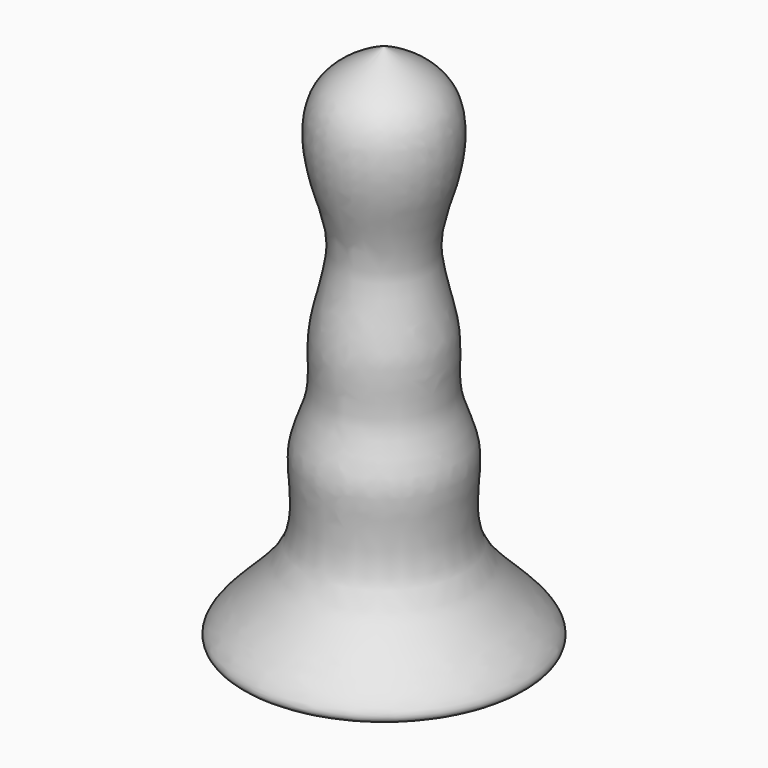
from build123d import *


with BuildPart() as f1:
    # F0 (on Right) → F1 (revolve)
    with BuildSketch(Plane.YZ):
        with BuildLine():
            Line((0, 0), (0, 63.0254223943))
            add(Edge.make_bspline(
                [(0, 63.0254223943), (-2.8054048903, 61.6803291017), (-8.4444325535, 58.9766130311), (-7.5955974711, 48.9252033029), (-4.3082866855, 41.8428251304), (-7.9527998584, 32.8209360776), (-6.634069504, 25.5598967962), (-10.3845633399, 19.8103548089), (-6.6980919271, 8.6997986147), (-20.0724360119, -0.1266925502), (-15.795104252, -1.0977707871), (-13.610055796, -1.1331941738)],
                knots=[0, 0, 0, 0, 0.1056457202, 0.2123540673, 0.3131214257, 0.4224493299, 0.5182896256, 0.6078331527, 0.7261294022, 0.8497404342, 0.9094013707, 0.9094013707, 0.9094013707, 0.9094013707], degree=3))
            add(Edge.make_bspline(
                [(-10.4242259481, -1.0398048908), (-11.4861681915, -1.0708705486), (-12.5481088071, -1.1018358), (-13.610055796, -1.1331941738)],
                knots=[1.8903546077, 1.8903546077, 1.8903546077, 1.8903546077, 5.077555677, 5.077555677, 5.077555677, 5.077555677], degree=3))
            add(Edge.make_bspline(
                [(-10.4242259481, -1.0398048908), (-7.4029836677, -0.853799189), (-3.7014918338, -0.4268995945), (0, 0)],
                knots=[0.9348324302, 0.9348324302, 0.9348324302, 0.9348324302, 1, 1, 1, 1], degree=3))
        make_face()
        with BuildLine():
            add(Edge.make_bspline(
                [(-10.4242259481, -1.0398048908), (-11.4861681915, -1.0708705486), (-12.5481088071, -1.1018358), (-13.610055796, -1.1331941738)],
                knots=[1.8903546077, 1.8903546077, 1.8903546077, 1.8903546077, 5.077555677, 5.077555677, 5.077555677, 5.077555677], degree=3))
            add(Edge.make_bspline(
                [(-13.610055796, -1.1331941738), (-12.6786574548, -1.1482937399), (-11.6032386441, -1.1123919472), (-10.4242259481, -1.0398048908)],
                knots=[0.9094013707, 0.9094013707, 0.9094013707, 0.9094013707, 0.9348324302, 0.9348324302, 0.9348324302, 0.9348324302], degree=3))
        make_face()
    revolve(axis=Axis((0, 0, 31.5127111971), (0, 0, -1)))


solid = f1.part
